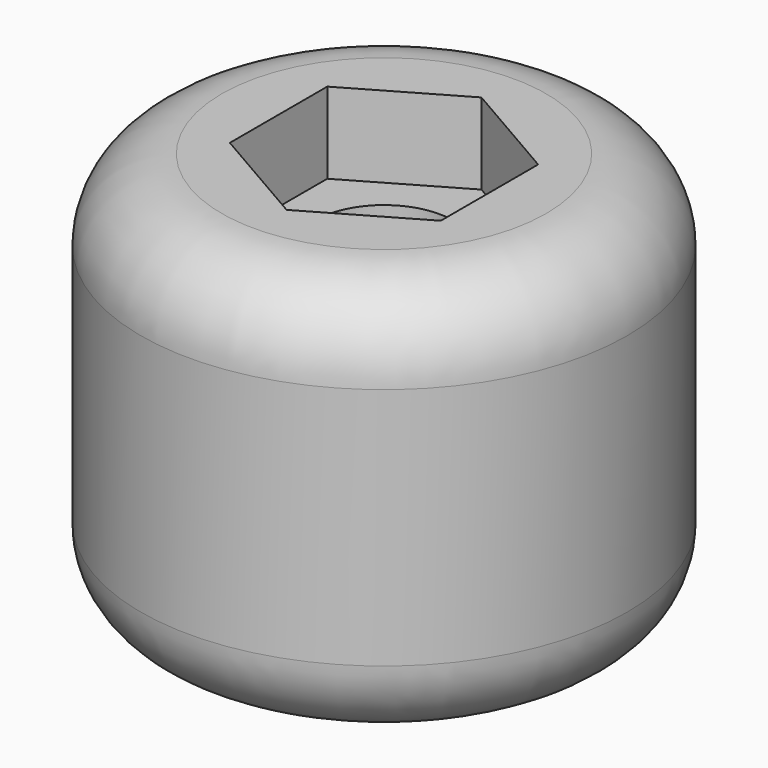
from build123d import *

# Parameters (mm, degrees)
F0_R     = 15
F1_DEPTH = 12.5
F3_DEPTH = 5
F4_R     = 4.25
F5_DEPTH = 20.001
F6_R     = 5
F7_SIZE  = 1
F8_R     = 1.5
F9_DEPTH = 50


with BuildPart() as f1:
    # F0 (on Top) → F1 (new body, symmetric)
    with BuildSketch(Plane.XY):
        Circle(F0_R)
    extrude(amount=F1_DEPTH, both=True)

    # F2 (on face) → F3 (cut)
    with BuildSketch(Plane.XY.offset(12.5)):
        Polygon((6.5, -3.752777), (6.5, 3.752777), (0, 7.505553), (-6.5, 3.752777), (-6.5, -3.752777), (0, -7.505553), align=None)
    extrude(amount=-F3_DEPTH, mode=Mode.SUBTRACT)

    # F4 (on face) → F5 (cut, through all)
    with BuildSketch(Plane.XY.offset(7.5)):
        Circle(F4_R)
    extrude(amount=-F5_DEPTH, mode=Mode.SUBTRACT)

    # F6
    f6_edges = [f1.edges().sort_by_distance(p)[0] for p in [
        (-15, 0, 12.5),
        (-15, 0, -12.5),
    ]]
    fillet(f6_edges, radius=F6_R)

    # F7
    f7_edges = [f1.edges().sort_by_distance(p)[0] for p in [
        (-4.25, 0, -12.5),
    ]]
    chamfer(f7_edges, length=F7_SIZE)

    # F8 (on Front) → F9 (cut)
    with BuildSketch(Plane.XZ):
        Circle(F8_R)
    extrude(amount=-F9_DEPTH, mode=Mode.SUBTRACT)


solid = f1.part
